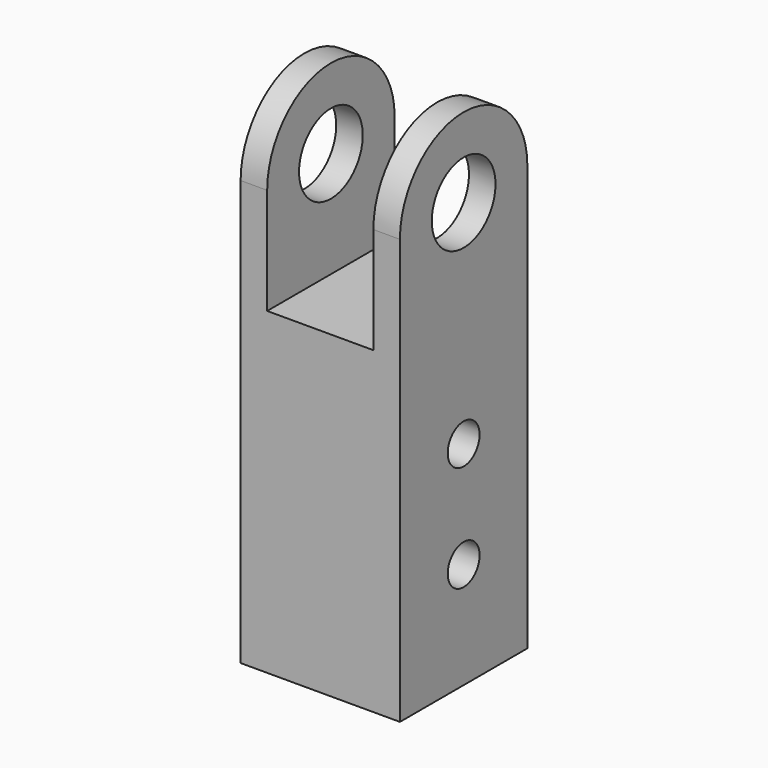
from build123d import *

# Parameters (mm, degrees)
F0_W     = 9.525
F0_H     = 19.05
F0_R     = 1.190625
F1_DEPTH = 9.525
F2_W     = 6.35
F2_H     = 12.7
F3_DEPTH = 9.526


with BuildPart() as f1:
    # F0 (on Right) → F1 (new body)
    with BuildSketch(Plane.YZ):
        with Locations((-4.7625, 9.525)):
            Rectangle(F0_W, F0_H)
        with Locations((-4.7625, 6.35)):
            Circle(F0_R, mode=Mode.SUBTRACT)
        with Locations((-4.7625, 12.7)):
            Circle(F0_R, mode=Mode.SUBTRACT)
        with BuildLine():
            Line((-9.525, 19.05), (0, 19.05))
            Line((0, 19.05), (0, 25.4))
            ThreePointArc((0, 25.4), (-4.7625, 20.6375), (-9.525, 25.4))
            Line((-9.525, 25.4), (-9.525, 19.05))
        make_face()
        with BuildLine():
            ThreePointArc((-9.525, 25.4), (-4.7625, 20.6375), (0, 25.4))
            Line((0, 25.4), (-2.38125, 25.4))
            ThreePointArc((-2.38125, 25.4), (-4.7625, 23.01875), (-7.14375, 25.4))
            Line((-7.14375, 25.4), (-9.525, 25.4))
        make_face()
        with BuildLine():
            Line((-2.38125, 25.4), (0, 25.4))
            ThreePointArc((0, 25.4), (-4.7625, 30.1625), (-9.525, 25.4))
            Line((-9.525, 25.4), (-7.14375, 25.4))
            ThreePointArc((-7.14375, 25.4), (-4.7625, 27.78125), (-2.38125, 25.4))
        make_face()
    extrude(amount=F1_DEPTH)

    # F2 (on face) → F3 (cut, through all)
    with BuildSketch(Plane.XZ.offset(9.525)):
        with Locations((4.7625, 25.4)):
            Rectangle(F2_W, F2_H)
    extrude(amount=-F3_DEPTH, mode=Mode.SUBTRACT)


solid = f1.part
